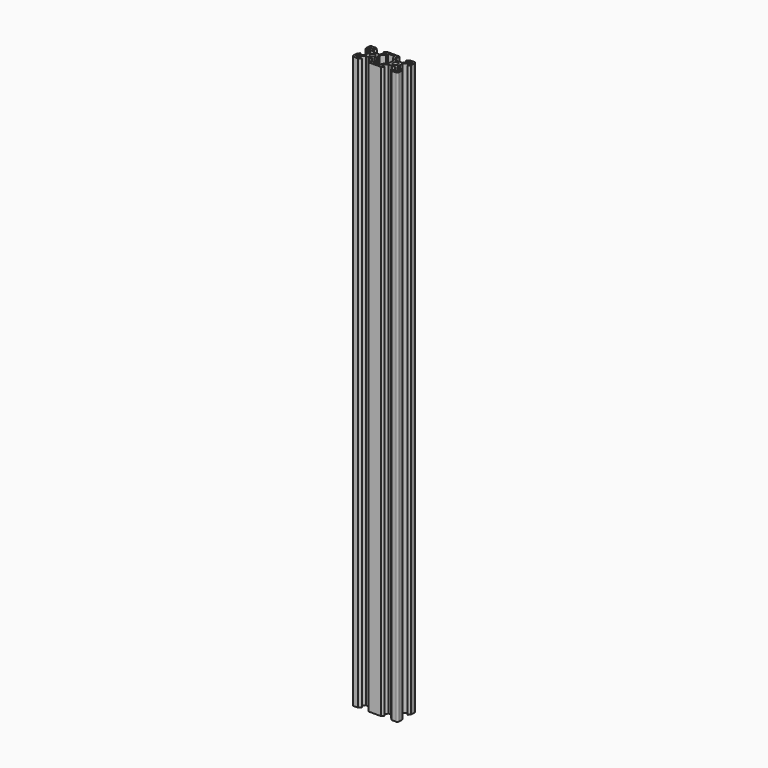
from build123d import *

# Parameters (mm, degrees)
F0_R     = 2.1
F1_DEPTH = 500


with BuildPart() as f1:
    # F0 (on Top) → F1 (new body)
    with BuildSketch(Plane.XY):
        with BuildLine():
            Line((4.64, -10), (8.5, -10))
            Line((8.5, -10), (11.5, -10))
            Line((11.5, -10), (15.36, -10))
            Line((15.36, -10), (17.16, -8.2))
            Line((17.16, -8.2), (14.50066, -8.2))
            Line((14.50066, -8.2), (14.50066, -6.56))
            Line((14.50066, -6.56), (17.16, -3.90066))
            Line((17.16, -3.90066), (19.75, -3.90066))
            Line((19.75, -3.90066), (20, -3.65066))
            Line((20, -3.65066), (20.25, -3.90066))
            Line((20.25, -3.90066), (22.84, -3.90066))
            Line((22.84, -3.90066), (25.49934, -6.56))
            Line((25.49934, -6.56), (25.49934, -8.2))
            Line((25.49934, -8.2), (22.84, -8.2))
            Line((22.84, -8.2), (24.64, -10))
            Line((24.64, -10), (28.5, -10))
            ThreePointArc((28.5, -10), (29.56066, -9.56066), (30, -8.5))
            Line((30, -8.5), (30, -4.64))
            Line((30, -4.64), (28.2, -2.84))
            Line((28.2, -2.84), (28.2, -5.49934))
            Line((28.2, -5.49934), (26.56, -5.49934))
            Line((26.56, -5.49934), (23.90066, -2.84))
            Line((23.90066, -2.84), (23.90066, -0.25))
            Line((23.90066, -0.25), (23.65066, 0))
            Line((23.65066, 0), (23.90066, 0.25))
            Line((23.90066, 0.25), (23.90066, 2.84))
            Line((23.90066, 2.84), (26.56, 5.49934))
            Line((26.56, 5.49934), (28.2, 5.49934))
            Line((28.2, 5.49934), (28.2, 2.84))
            Line((28.2, 2.84), (30, 4.64))
            Line((30, 4.64), (30, 8.5))
            ThreePointArc((30, 8.5), (29.56066, 9.56066), (28.5, 10))
            Line((28.5, 10), (24.64, 10))
            Line((24.64, 10), (22.84, 8.2))
            Line((22.84, 8.2), (25.49934, 8.2))
            Line((25.49934, 8.2), (25.49934, 6.56))
            Line((25.49934, 6.56), (22.84, 3.90066))
            Line((22.84, 3.90066), (20.25, 3.90066))
            Line((20.25, 3.90066), (20, 3.65066))
            Line((20, 3.65066), (19.75, 3.90066))
            Line((19.75, 3.90066), (17.16, 3.90066))
            Line((17.16, 3.90066), (14.50066, 6.56))
            Line((14.50066, 6.56), (14.50066, 8.2))
            Line((14.50066, 8.2), (17.16, 8.2))
            Line((17.16, 8.2), (15.36, 10))
            Line((15.36, 10), (11.5, 10))
            Line((11.5, 10), (8.5, 10))
            Line((8.5, 10), (4.64, 10))
            Line((4.64, 10), (2.84, 8.2))
            Line((2.84, 8.2), (5.49934, 8.2))
            Line((5.49934, 8.2), (5.49934, 6.56))
            Line((5.49934, 6.56), (2.84, 3.90066))
            Line((2.84, 3.90066), (0.25, 3.90066))
            Line((0.25, 3.90066), (0, 3.65066))
            Line((0, 3.65066), (-0.25, 3.90066))
            Line((-0.25, 3.90066), (-2.84, 3.90066))
            Line((-2.84, 3.90066), (-5.49934, 6.56))
            Line((-5.49934, 6.56), (-5.49934, 8.2))
            Line((-5.49934, 8.2), (-2.84, 8.2))
            Line((-2.84, 8.2), (-4.64, 10))
            Line((-4.64, 10), (-8.5, 10))
            ThreePointArc((-8.5, 10), (-9.56066, 9.56066), (-10, 8.5))
            Line((-10, 8.5), (-10, 4.64))
            Line((-10, 4.64), (-8.2, 2.84))
            Line((-8.2, 2.84), (-8.2, 5.49934))
            Line((-8.2, 5.49934), (-6.56, 5.49934))
            Line((-6.56, 5.49934), (-3.90066, 2.84))
            Line((-3.90066, 2.84), (-3.90066, 0.25))
            Line((-3.90066, 0.25), (-3.65066, 0))
            Line((-3.65066, 0), (-3.90066, -0.25))
            Line((-3.90066, -0.25), (-3.90066, -2.84))
            Line((-3.90066, -2.84), (-6.56, -5.49934))
            Line((-6.56, -5.49934), (-8.2, -5.49934))
            Line((-8.2, -5.49934), (-8.2, -2.84))
            Line((-8.2, -2.84), (-10, -4.64))
            Line((-10, -4.64), (-10, -8.5))
            ThreePointArc((-10, -8.5), (-9.56066, -9.56066), (-8.5, -10))
            Line((-8.5, -10), (-4.64, -10))
            Line((-4.64, -10), (-2.84, -8.2))
            Line((-2.84, -8.2), (-5.49934, -8.2))
            Line((-5.49934, -8.2), (-5.49934, -6.56))
            Line((-5.49934, -6.56), (-2.84, -3.90066))
            Line((-2.84, -3.90066), (-0.25, -3.90066))
            Line((-0.25, -3.90066), (0, -3.65066))
            Line((0, -3.65066), (0.25, -3.90066))
            Line((0.25, -3.90066), (2.84, -3.90066))
            Line((2.84, -3.90066), (5.49934, -6.56))
            Line((5.49934, -6.56), (5.49934, -8.2))
            Line((5.49934, -8.2), (2.84, -8.2))
            Line((2.84, -8.2), (4.64, -10))
        make_face()
        Polygon((-6.56934, -7.63), (-6.56934, -8.2), (-8.2, -8.2), (-8.2, -6.56934), (-7.63, -6.56934), align=None, mode=Mode.SUBTRACT)
        Polygon((27.63, -6.56934), (28.2, -6.56934), (28.2, -8.2), (26.56934, -8.2), (26.56934, -7.63), align=None, mode=Mode.SUBTRACT)
        Circle(F0_R, mode=Mode.SUBTRACT)
        Polygon((-7.63, 6.56934), (-8.2, 6.56934), (-8.2, 8.2), (-6.56934, 8.2), (-6.56934, 7.63), align=None, mode=Mode.SUBTRACT)
        Polygon((3.90066, 2.84), (6.56, 5.49934), (6.99934, 5.93868), (6.99934, 8.2), (13.00066, 8.2), (13.00066, 5.93868), (13.44, 5.49934), (16.09934, 2.84), (16.09934, 0.25), (16.34934, 0), (16.09934, -0.25), (16.09934, -2.84), (13.44, -5.49934), (13.00066, -5.93868), (13.00066, -8.2), (6.99934, -8.2), (6.99934, -5.93868), (6.56, -5.49934), (3.90066, -2.84), (3.90066, -0.25), (3.65066, 0), (3.90066, 0.25), align=None, mode=Mode.SUBTRACT)
        with Locations((20, 0)):
            Circle(F0_R, mode=Mode.SUBTRACT)
        Polygon((28.2, 8.2), (28.2, 6.56934), (27.63, 6.56934), (26.56934, 7.63), (26.56934, 8.2), align=None, mode=Mode.SUBTRACT)
    extrude(amount=F1_DEPTH)


solid = f1.part
